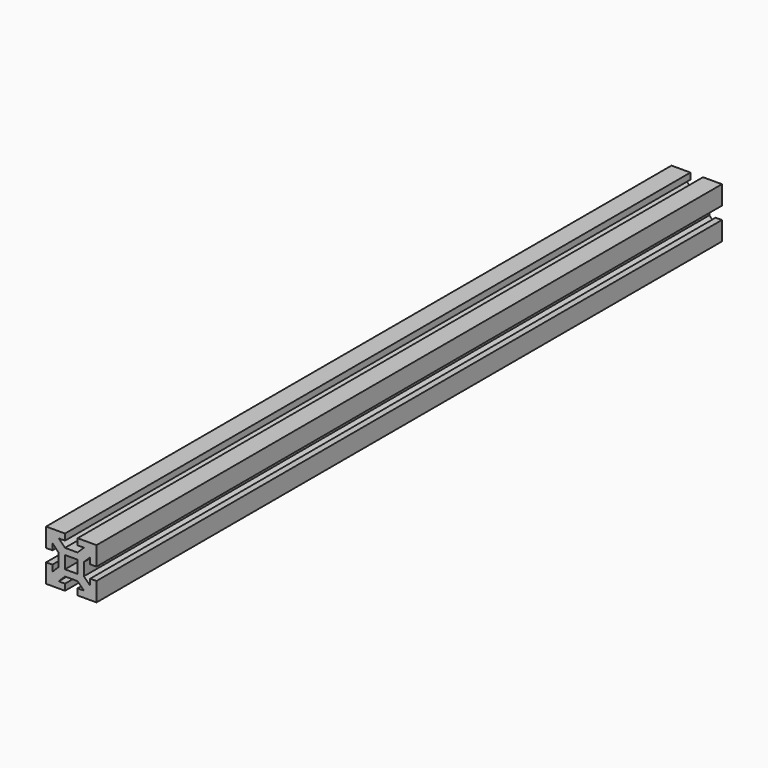
from build123d import *

# Parameters (mm, degrees)
F1_DEPTH = 620


with BuildPart() as f1:
    # F0 (on Front) → F1 (new body)
    with BuildSketch(Plane.XZ):
        Polygon((20, 5), (20, 20), (5, 20), (5, 15), (10, 15), (5, 10), (-5, 10), (-10, 15), (-5, 15), (-5, 20), (-20, 20), (-20, 5), (-15, 5), (-15, 10), (-10, 5), (-10, -5), (-15, -10), (-15, -5), (-20, -5), (-20, -20), (-5, -20), (-5, -15), (-10, -15), (-5, -10), (5, -10), (10, -15), (5, -15), (5, -20), (20, -20), (20, -5), (15, -5), (15, -10), (10, -5), (10, 5), (15, 10), (15, 5), align=None)
        Polygon((-5, 0), (-5, 5), (0, 5), (5, 5), (5, 0), (5, -5), (0, -5), (-5, -5), align=None, mode=Mode.SUBTRACT)
    extrude(amount=F1_DEPTH)


solid = f1.part
